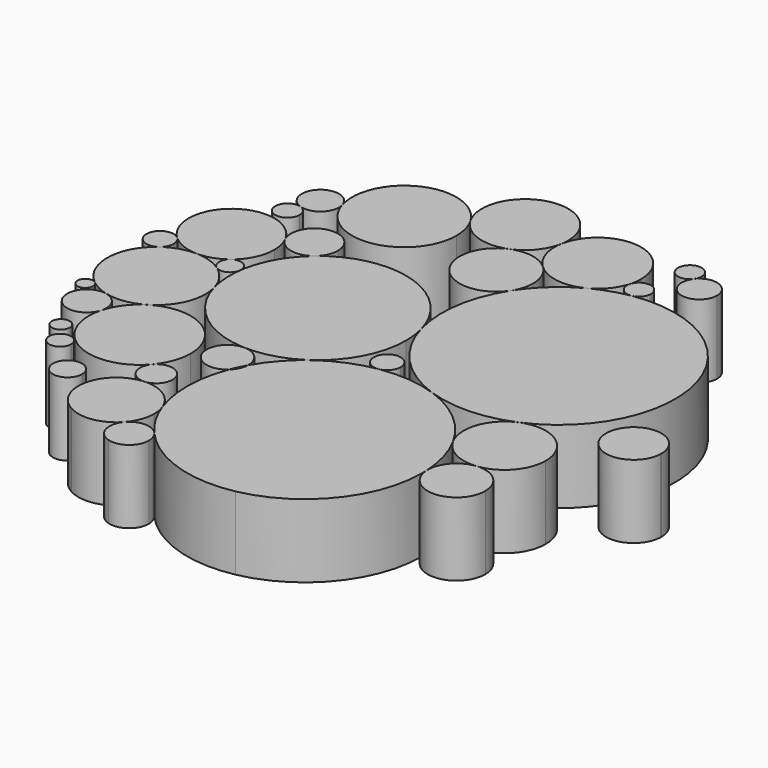
from build123d import *

# Parameters (mm, degrees)
F1_DEPTH = 20.32


with BuildPart() as f1:
    # F0 (on Top) → F1 (new body)
    with BuildSketch(Plane.XY):
        with BuildLine():
            ThreePointArc((75.8633240868, -3.0672766402), (60.546255736, -2.8951749107), (75.8555901613, -3.4113932011))
            ThreePointArc((75.8555901613, -3.4113932011), (75.8613903613, -3.2393783696), (75.8633240868, -3.0672766402))
        make_face()
    extrude(amount=F1_DEPTH)


with BuildPart() as f1b:
    # F0 (on Top) → F1, piece 2 (new body)
    with BuildSketch(Plane.XY):
        with BuildLine():
            ThreePointArc((-45.3388495604, -52.2985055732), (-50.950437654, -48.6073496966), (-52.1176662913, -55.221888981))
            ThreePointArc((-52.1176662913, -55.221888981), (-47.7667953536, -55.9896614498), (-45.3388495604, -52.2985055732))
        make_face()
    extrude(amount=F1_DEPTH)


with BuildPart() as f1c:
    # F0 (on Top) → F1, piece 3 (new body)
    with BuildSketch(Plane.XY):
        with BuildLine():
            ThreePointArc((-55.9529291685, -42.8334124717), (-59.924103673, -39.9477965193), (-61.4419253779, -44.6161178067))
            ThreePointArc((-61.4419253779, -44.6161178067), (-58.049734387, -45.7190284241), (-55.9529291685, -42.8334124717))
        make_face()
    extrude(amount=F1_DEPTH)


with BuildPart() as f1d:
    # F0 (on Top) → F1, piece 4 (new body)
    with BuildSketch(Plane.XY):
        with BuildLine():
            ThreePointArc((-61.0326465581, -36.9203686794), (-64.1501337791, -34.5319567632), (-65.6448405949, -38.1636353819))
            ThreePointArc((-65.6448405949, -38.1636353819), (-62.8624893376, -39.3087805956), (-61.0326465581, -36.9203686794))
        make_face()
    extrude(amount=F1_DEPTH)


with BuildPart() as f1e:
    # F0 (on Top) → F1, piece 5 (new body)
    with BuildSketch(Plane.XY):
        with BuildLine():
            ThreePointArc((-15.9419813723, -63.997483592), (-1.8856072329, -73.3668771499), (14.9730005651, -74.441368985))
            ThreePointArc((14.9730005651, -74.441368985), (33.76291645, -63.1380923283), (41.1390961773, -42.4882261115))
            ThreePointArc((41.1390961773, -42.4882261115), (41.1297752296, -41.708796756), (41.1018177179, -40.9298132018))
            ThreePointArc((41.1018177179, -40.9298132018), (39.9134519109, -33.6342514293), (37.1117740983, -26.7940733393))
            ThreePointArc((37.1117740983, -26.7940733393), (29.5838172344, -17.5940489355), (19.2573677935, -11.7054985605))
            ThreePointArc((19.2573677935, -11.7054985605), (11.3829098237, -10.0188315204), (3.3352643149, -10.3143578105))
            ThreePointArc((3.3352643149, -10.3143578105), (-10.159259189, -15.7969780824), (-19.9180235168, -26.6102943378))
            ThreePointArc((-19.9180235168, -26.6102943378), (-20.4633527352, -28.8716678399), (-21.8545661275, -30.7359959681))
            ThreePointArc((-21.8545661275, -30.7359959681), (-24.0447924698, -42.1014961051), (-22.124876222, -53.5157681535))
            ThreePointArc((-22.124876222, -53.5157681535), (-19.5269670294, -59.0477514058), (-15.9419813723, -63.997483592))
        make_face()
        with BuildLine():
            ThreePointArc((17.5121575948, -71.3406381472), (16.7963733216, -73.344500053), (14.9730005651, -74.441368985))
            ThreePointArc((14.9730005651, -74.441368985), (11.9022794681, -69.3367762413), (17.5121575948, -71.3406381472))
        make_face(mode=Mode.SUBTRACT)
        with BuildLine():
            ThreePointArc((17.5121575948, -71.3406381472), (11.9022794681, -69.3367762413), (14.9730005651, -74.441368985))
            ThreePointArc((14.9730005651, -74.441368985), (16.7963733216, -73.344500053), (17.5121575948, -71.3406381472))
        make_face()
    extrude(amount=F1_DEPTH)


with BuildPart() as f1f:
    # F0 (on Top) → F1, piece 6 (new body)
    with BuildSketch(Plane.XY):
        with BuildLine():
            ThreePointArc((-50.9417903482, 44.9286776675), (-54.9171312417, 48.5222748978), (-59.9298266926, 46.6275029879))
            ThreePointArc((-59.9298266926, 46.6275029879), (-60.7909371229, 41.9745298397), (-57.4852441581, 38.5886674217))
            ThreePointArc((-57.4852441581, 38.5886674217), (-52.8604096742, 39.3033594055), (-50.7306336529, 43.4703646531))
            ThreePointArc((-50.7306336529, 43.4703646531), (-50.7836966535, 44.2071251294), (-50.9417903482, 44.9286776675))
        make_face()
    extrude(amount=F1_DEPTH)


with BuildPart() as f1g:
    # F0 (on Top) → F1, piece 7 (new body)
    with BuildSketch(Plane.XY):
        with BuildLine():
            ThreePointArc((38.9749747643, 62.3298110273), (38.2907747529, 64.8252608019), (36.4295266033, 66.6228020556))
            ThreePointArc((36.4295266033, 66.6228020556), (33.0419359988, 67.1108349206), (30.1633028721, 65.2595063428))
            ThreePointArc((30.1633028721, 65.2595063428), (32.5384181371, 57.6868411754), (38.9749747643, 62.3298110273))
        make_face()
    extrude(amount=F1_DEPTH)


with BuildPart() as f1h:
    # F0 (on Top) → F1, piece 8 (new body)
    with BuildSketch(Plane.XY):
        with BuildLine():
            ThreePointArc((30.8174944912, 67.2271244803), (30.260023224, 69.0582571003), (28.7767537066, 70.2681052))
            ThreePointArc((28.7767537066, 70.2681052), (24.3643940265, 66.3503939314), (30.1633028721, 65.2595063428))
            ThreePointArc((30.1633028721, 65.2595063428), (30.6496606334, 66.1903641645), (30.8174944912, 67.2271244803))
        make_face()
    extrude(amount=F1_DEPTH)


with BuildPart() as f1i:
    # F0 (on Top) → F1, piece 9 (new body)
    with BuildSketch(Plane.XY):
        with BuildLine():
            ThreePointArc((-70.0631538217, -16.9353579683), (-72.5696295492, -16.808707607), (-73.4782824098, -19.1481115622))
            ThreePointArc((-73.4782824098, -19.1481115622), (-71.1316147039, -20.733664326), (-69.2606209091, -18.6075859859))
            ThreePointArc((-69.2606209091, -18.6075859859), (-69.4716414357, -17.6801694642), (-70.0631538217, -16.9353579683))
        make_face()
    extrude(amount=F1_DEPTH)


with BuildPart() as f1j:
    # F0 (on Top) → F1, piece 10 (new body)
    with BuildSketch(Plane.XY):
        with BuildLine():
            ThreePointArc((-24.5847827291, 56.3286308475), (-34.23753028, 63.2140981025), (-45.7953744593, 60.5680760832))
            ThreePointArc((-45.7953744593, 60.5680760832), (-50.8110718121, 53.5521204699), (-50.9417903482, 44.9286776675))
            ThreePointArc((-50.9417903482, 44.9286776675), (-34.9997054378, 34.7169484766), (-22.608856679, 49.0311495159))
            ThreePointArc((-22.608856679, 49.0311495159), (-23.1115748737, 52.811279062), (-24.5847827291, 56.3286308475))
        make_face()
    extrude(amount=F1_DEPTH)


with BuildPart() as f1k:
    # F0 (on Top) → F1, piece 11 (new body)
    with BuildSketch(Plane.XY):
        with BuildLine():
            ThreePointArc((-71.0682061589, -26.7398248992), (-65.747794836, -30.2488573448), (-60.7628569726, -26.2776509982))
            ThreePointArc((-60.7628569726, -26.2776509982), (-60.6154232863, -25.5602052333), (-60.5659782795, -24.8294383013))
            ThreePointArc((-60.5659782795, -24.8294383013), (-61.7298026701, -21.4719546346), (-64.7219134246, -19.5550673096))
            ThreePointArc((-64.7219134246, -19.5550673096), (-70.0567050833, -21.2380659149), (-71.0682061589, -26.7398248992))
        make_face()
    extrude(amount=F1_DEPTH)


with BuildPart() as f1l:
    # F0 (on Top) → F1, piece 12 (new body)
    with BuildSketch(Plane.XY):
        with BuildLine():
            ThreePointArc((-69.2010266905, 10.5178366403), (-73.0696344387, 11.2875226352), (-75.4910413222, 8.1737899644))
            ThreePointArc((-75.4910413222, 8.1737899644), (-73.6403461422, 4.521094272), (-69.5510565482, 4.7331534287))
            ThreePointArc((-69.5510565482, 4.7331534287), (-68.4133896668, 6.0658233918), (-68.0044739717, 7.7696670224))
            ThreePointArc((-68.0044739717, 7.7696670224), (-68.3165861902, 9.2683476637), (-69.2010266905, 10.5178366403))
        make_face()
    extrude(amount=F1_DEPTH)


with BuildPart() as f1m:
    # F0 (on Top) → F1, piece 13 (new body)
    with BuildSketch(Plane.XY):
        with BuildLine():
            ThreePointArc((-24.1162536387, -63.997869023), (-25.2552319896, -69.0959914029), (-21.5745174698, -72.8028046042))
            ThreePointArc((-21.5745174698, -72.8028046042), (-16.7745089063, -71.946070279), (-14.5892645689, -67.5873109257))
            ThreePointArc((-14.5892645689, -67.5873109257), (-14.9386650761, -65.6691931611), (-15.9419813723, -63.997483592))
            ThreePointArc((-15.9419813723, -63.997483592), (-20.0292047385, -62.1476272526), (-24.1162536387, -63.997869023))
        make_face()
    extrude(amount=F1_DEPTH)


with BuildPart() as f1n:
    # F0 (on Top) → F1, piece 14 (new body)
    with BuildSketch(Plane.XY):
        with BuildLine():
            ThreePointArc((-2.2987382405, 62.362985021), (-6.8035571022, 71.7150798199), (-16.924463505, 74.0220960076))
            ThreePointArc((-16.924463505, 74.0220960076), (-25.2342109733, 67.1147841493), (-24.5847827291, 56.3286308475))
            ThreePointArc((-24.5847827291, 56.3286308475), (-18.0859440423, 51.0319036462), (-9.7064100055, 51.3032570142))
            ThreePointArc((-9.7064100055, 51.3032570142), (-4.9566084378, 54.8455476343), (-2.4899445861, 60.2329409939))
            ThreePointArc((-2.4899445861, 60.2329409939), (-2.3466357372, 61.2936806415), (-2.2987382405, 62.362985021))
        make_face()
    extrude(amount=F1_DEPTH)


with BuildPart() as f1o:
    # F0 (on Top) → F1, piece 15 (new body)
    with BuildSketch(Plane.XY):
        with BuildLine():
            ThreePointArc((-32.6358124837, -46.5865590934), (-42.2414734848, -54.7198472583), (-37.1432409308, -66.2275457453))
            ThreePointArc((-37.1432409308, -66.2275457453), (-30.2349830413, -67.4191353661), (-24.1162536387, -63.997869023))
            ThreePointArc((-24.1162536387, -63.997869023), (-22.1798917206, -60.7710157394), (-21.5055699811, -57.0686692155))
            ThreePointArc((-21.5055699811, -57.0686692155), (-21.6615550687, -55.2654328072), (-22.124876222, -53.5157681535))
            ThreePointArc((-22.124876222, -53.5157681535), (-26.2268215544, -48.3013817211), (-32.6358124837, -46.5865590934))
        make_face()
    extrude(amount=F1_DEPTH)


with BuildPart() as f1p:
    # F0 (on Top) → F1, piece 16 (new body)
    with BuildSketch(Plane.XY):
        with BuildLine():
            ThreePointArc((-50.506136031, 24.5391917229), (-62.0690568851, 31.0410312107), (-72.4385415096, 22.7676495547))
            ThreePointArc((-72.4385415096, 22.7676495547), (-72.590679035, 16.1747115745), (-69.2010266905, 10.5178366403))
            ThreePointArc((-69.2010266905, 10.5178366403), (-65.5492962636, 8.1965525538), (-61.3082197713, 7.3382023289))
            ThreePointArc((-61.3082197713, 7.3382023289), (-57.387298075, 7.9364745322), (-53.8822889373, 9.7929409397))
            ThreePointArc((-53.8822889373, 9.7929409397), (-50.4649274437, 13.9597725419), (-49.2417928315, 19.2080853089))
            ThreePointArc((-49.2417928315, 19.2080853089), (-49.5622025383, 21.9475770192), (-50.506136031, 24.5391917229))
        make_face()
    extrude(amount=F1_DEPTH)


with BuildPart() as f1q:
    # F0 (on Top) → F1, piece 17 (new body)
    with BuildSketch(Plane.XY):
        with BuildLine():
            ThreePointArc((-38.2288238943, 27.4509208345), (-46.2090058469, 33.7598541778), (-50.506136031, 24.5391917229))
            ThreePointArc((-50.506136031, 24.5391917229), (-46.0213061638, 21.1004012223), (-40.5423680613, 22.4861199216))
            ThreePointArc((-40.5423680613, 22.4861199216), (-38.8356015866, 24.7122288695), (-38.2288238943, 27.4509208345))
        make_face()
    extrude(amount=F1_DEPTH)


with BuildPart() as f1r:
    # F0 (on Top) → F1, piece 18 (new body)
    with BuildSketch(Plane.XY):
        with BuildLine():
            ThreePointArc((-55.1779021257, 35.3960896881), (-55.8151178294, 37.3656315028), (-57.4852441581, 38.5886674217))
            ThreePointArc((-57.4852441581, 38.5886674217), (-61.2654717474, 33.4265478734), (-55.1779021257, 35.3960896881))
        make_face()
    extrude(amount=F1_DEPTH)


with BuildPart() as f1s:
    # F0 (on Top) → F1, piece 19 (new body)
    with BuildSketch(Plane.XY):
        with BuildLine():
            ThreePointArc((1.1252060312, 49.3256994253), (-4.0003450709, 51.9042935993), (-9.7064100055, 51.3032570142))
            ThreePointArc((-9.7064100055, 51.3032570142), (-13.6594012642, 35.3706971141), (2.7264294996, 36.3592086405))
            ThreePointArc((2.7264294996, 36.3592086405), (3.9397726196, 39.0043965744), (4.3555346829, 41.8847372903))
            ThreePointArc((4.3555346829, 41.8847372903), (3.5131140217, 45.9406878784), (1.1252060312, 49.3256994253))
        make_face()
    extrude(amount=F1_DEPTH)


with BuildPart() as f1t:
    # F0 (on Top) → F1, piece 20 (new body)
    with BuildSketch(Plane.XY):
        with BuildLine():
            ThreePointArc((21.3253199121, 58.0951307966), (10.394938995, 70.0506426589), (-2.4899445861, 60.2329409939))
            ThreePointArc((-2.4899445861, 60.2329409939), (-2.0723020153, 54.3186339615), (1.1252060312, 49.3256994253))
            ThreePointArc((1.1252060312, 49.3256994253), (7.70986572, 46.2002620202), (14.8888396633, 47.4605934484))
            ThreePointArc((14.8888396633, 47.4605934484), (18.646920042, 50.5368922608), (20.8784742764, 54.8504694555))
            ThreePointArc((20.8784742764, 54.8504694555), (21.213083787, 56.4574878074), (21.3253199121, 58.0951307966))
        make_face()
    extrude(amount=F1_DEPTH)


with BuildPart() as f1u:
    # F0 (on Top) → F1, piece 21 (new body)
    with BuildSketch(Plane.XY):
        with BuildLine():
            ThreePointArc((-47.8954425072, -6.2966663292), (-48.0178511972, -4.4736141955), (-48.3828796856, -2.6832909922))
            ThreePointArc((-48.3828796856, -2.6832909922), (-50.4051578043, 1.5868503561), (-53.7631860489, 4.9106076026))
            ThreePointArc((-53.7631860489, 4.9106076026), (-57.3554415563, 6.6846624002), (-61.3082197713, 7.3382023289))
            ThreePointArc((-61.3082197713, 7.3382023289), (-65.64152755, 6.7061334923), (-69.5510565482, 4.7331534287))
            ThreePointArc((-69.5510565482, 4.7331534287), (-75.1650505932, -5.9744766246), (-70.0631538217, -16.9353579683))
            ThreePointArc((-70.0631538217, -16.9353579683), (-67.5371325508, -18.5400307018), (-64.7219134246, -19.5550673096))
            ThreePointArc((-64.7219134246, -19.5550673096), (-59.4350582838, -19.7711605626), (-54.4639348023, -17.9585754185))
            ThreePointArc((-54.4639348023, -17.9585754185), (-49.650505031, -12.9889233221), (-47.8954425072, -6.2966663292))
        make_face()
    extrude(amount=F1_DEPTH)


with BuildPart() as f1v:
    # F0 (on Top) → F1, piece 22 (new body)
    with BuildSketch(Plane.XY):
        with BuildLine():
            ThreePointArc((-53.8822889373, 9.7929409397), (-55.0631569345, 7.3215146538), (-53.7631860489, 4.9106076026))
            ThreePointArc((-53.7631860489, 4.9106076026), (-50.8180104349, 4.6303372043), (-49.0438196159, 6.9977952992))
            ThreePointArc((-49.0438196159, 6.9977952992), (-49.0241474779, 7.1960868501), (-49.0175805891, 7.3952435927))
            ThreePointArc((-49.0175805891, 7.3952435927), (-50.7042624906, 10.1069930225), (-53.8822889373, 9.7929409397))
        make_face()
    extrude(amount=F1_DEPTH)


with BuildPart() as f1w:
    # F0 (on Top) → F1, piece 23 (new body)
    with BuildSketch(Plane.XY):
        with BuildLine():
            ThreePointArc((-48.3828796856, -2.6832909922), (-39.9178958397, -15.4185337037), (-25.5387450368, -20.6226071678))
            ThreePointArc((-25.5387450368, -20.6226071678), (-7.8183753134, -13.727065236), (-0.4154713498, 3.787414904))
            ThreePointArc((-0.4154713498, 3.787414904), (-0.6346765809, 7.0520736715), (-1.2883569223, 10.2581226126))
            ThreePointArc((-1.2883569223, 10.2581226126), (-17.5727409922, 27.102521206), (-40.5423680613, 22.4861199216))
            ThreePointArc((-40.5423680613, 22.4861199216), (-46.2429273104, 15.5377627942), (-49.0438196159, 6.9977952992))
            ThreePointArc((-49.0438196159, 6.9977952992), (-49.1990522157, 2.1240926288), (-48.3828796856, -2.6832909922))
        make_face()
    extrude(amount=F1_DEPTH)


with BuildPart() as f1x:
    # F0 (on Top) → F1, piece 24 (new body)
    with BuildSketch(Plane.XY):
        with BuildLine():
            ThreePointArc((-60.7628569726, -26.2776509982), (-53.7435421811, -42.555997016), (-36.3387334841, -39.1902930128))
            ThreePointArc((-36.3387334841, -39.1902930128), (-33.854171525, -34.9187338128), (-32.9908505804, -30.0531461736))
            ThreePointArc((-32.9908505804, -30.0531461736), (-40.1929431848, -17.7306871277), (-54.4639348023, -17.9585754185))
            ThreePointArc((-54.4639348023, -17.9585754185), (-58.4086917769, -21.5159421063), (-60.7628569726, -26.2776509982))
        make_face()
    extrude(amount=F1_DEPTH)


with BuildPart() as f1y:
    # F0 (on Top) → F1, piece 25 (new body)
    with BuildSketch(Plane.XY):
        with BuildLine():
            ThreePointArc((-25.5387450368, -20.6226071678), (-31.1465783694, -28.3932136849), (-21.8545661275, -30.7359959681))
            ThreePointArc((-21.8545661275, -30.7359959681), (-20.9584967982, -28.6392546258), (-19.9180235168, -26.6102943378))
            ThreePointArc((-19.9180235168, -26.6102943378), (-19.9154531413, -26.5107075018), (-19.914596265, -26.4110911854))
            ThreePointArc((-19.914596265, -26.4110911854), (-21.552175393, -22.3756978765), (-25.5387450368, -20.6226071678))
        make_face()
    extrude(amount=F1_DEPTH)


with BuildPart() as f1z:
    # F0 (on Top) → F1, piece 26 (new body)
    with BuildSketch(Plane.XY):
        with BuildLine():
            ThreePointArc((-36.3387334841, -39.1902930128), (-36.9276292182, -44.1101839306), (-32.6358124837, -46.5865590934))
            ThreePointArc((-32.6358124837, -46.5865590934), (-29.6307439988, -45.1803790612), (-28.4071668788, -42.0964468451))
            ThreePointArc((-28.4071668788, -42.0964468451), (-31.3578176468, -37.8728382306), (-36.3387334841, -39.1902930128))
        make_face()
    extrude(amount=F1_DEPTH)


with BuildPart() as f1ba:
    # F0 (on Top) → F1, piece 27 (new body)
    with BuildSketch(Plane.XY):
        with BuildLine():
            ThreePointArc((14.8888396633, 47.4605934484), (8.0888480431, 42.6973862863), (2.7264294996, 36.3592086405))
            ThreePointArc((2.7264294996, 36.3592086405), (-2.0680307249, 23.7373634513), (-1.2883569223, 10.2581226126))
            ThreePointArc((-1.2883569223, 10.2581226126), (6.2744901227, -3.258753943), (19.2573677935, -11.7054985605))
            ThreePointArc((19.2573677935, -11.7054985605), (31.0015803473, -13.4814675953), (42.5943951905, -10.8954980416))
            ThreePointArc((42.5943951905, -10.8954980416), (56.8601086356, 1.0204161413), (62.2044137877, 18.8231685507))
            ThreePointArc((62.2044137877, 18.8231685507), (50.7824135421, 43.4797988092), (24.5885406574, 50.7111561237))
            ThreePointArc((24.5885406574, 50.7111561237), (19.6092833437, 49.4720256017), (14.8888396633, 47.4605934484))
        make_face()
    extrude(amount=F1_DEPTH)


with BuildPart() as f1bb:
    # F0 (on Top) → F1, piece 28 (new body)
    with BuildSketch(Plane.XY):
        with BuildLine():
            ThreePointArc((6.4632795867, -6.6389849094), (-0.0953798138, -4.2258518058), (3.3352643149, -10.3143578105))
            ThreePointArc((3.3352643149, -10.3143578105), (5.5754134817, -9.052118013), (6.4632795867, -6.6389849094))
        make_face()
    extrude(amount=F1_DEPTH)


with BuildPart() as f1bc:
    # F0 (on Top) → F1, piece 29 (new body)
    with BuildSketch(Plane.XY):
        with BuildLine():
            ThreePointArc((42.5943951905, -10.8954980416), (36.3295054575, -17.6296799839), (37.1117740983, -26.7940733393))
            ThreePointArc((37.1117740983, -26.7940733393), (41.7963364058, -31.3846184939), (48.2384125795, -32.6166426014))
            ThreePointArc((48.2384125795, -32.6166426014), (55.4898975598, -28.925496025), (58.4069072005, -21.329467311))
            ThreePointArc((58.4069072005, -21.329467311), (53.3085902959, -11.8570962934), (42.5943951905, -10.8954980416))
        make_face()
    extrude(amount=F1_DEPTH)


with BuildPart() as f1bd:
    # F0 (on Top) → F1, piece 30 (new body)
    with BuildSketch(Plane.XY):
        with BuildLine():
            ThreePointArc((48.2384125795, -32.6166426014), (43.0166120038, -35.3537475836), (41.1018177179, -40.9298132018))
            ThreePointArc((41.1018177179, -40.9298132018), (49.2585029143, -48.5213007741), (57.0428779583, -40.5484905964))
            ThreePointArc((57.0428779583, -40.5484905964), (54.4057519319, -34.6232728109), (48.2384125795, -32.6166426014))
        make_face()
    extrude(amount=F1_DEPTH)


with BuildPart() as f1be:
    # F0 (on Top) → F1, piece 31 (new body)
    with BuildSketch(Plane.XY):
        with BuildLine():
            ThreePointArc((27.3428540768, 53.9602135391), (24.4986917082, 57.2229103454), (20.8784742764, 54.8504694555))
            ThreePointArc((20.8784742764, 54.8504694555), (21.5968223166, 51.7620019329), (24.5885406574, 50.7111561237))
            ThreePointArc((24.5885406574, 50.7111561237), (26.5616190069, 51.830506018), (27.3428540768, 53.9602135391))
        make_face()
    extrude(amount=F1_DEPTH)


solid = Compound([f1.part, f1b.part, f1c.part, f1d.part, f1e.part, f1f.part, f1g.part, f1h.part, f1i.part, f1j.part, f1k.part, f1l.part, f1m.part, f1n.part, f1o.part, f1p.part, f1q.part, f1r.part, f1s.part, f1t.part, f1u.part, f1v.part, f1w.part, f1x.part, f1y.part, f1z.part, f1ba.part, f1bb.part, f1bc.part, f1bd.part, f1be.part])
